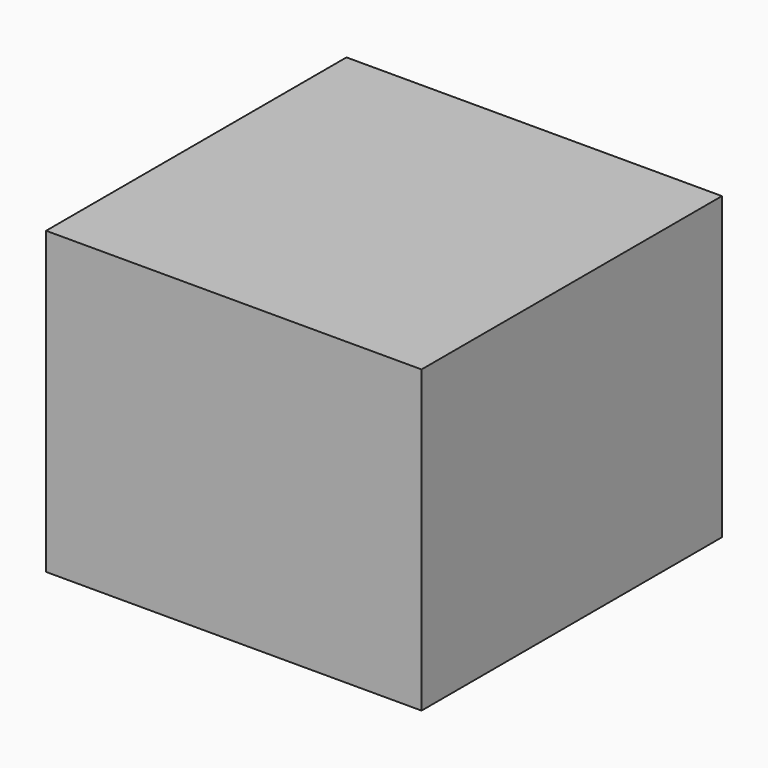
from build123d import *

# Parameters (mm, degrees)
F0_W     = 31.75
F0_H     = 31.75
F1_DEPTH = 25.4
F2_W     = 25.4
F2_H     = 25.4
F3_DEPTH = 24.13


with BuildPart() as f1:
    # F0 (on Top) → F1 (new body)
    with BuildSketch(Plane.XY):
        Rectangle(F0_W, F0_H)
    extrude(amount=F1_DEPTH)

    # F2 (on face) → F3 (cut)
    with BuildSketch(Plane(origin=(0, 0, 0), x_dir=(1, 0, 0), z_dir=(0, 0, -1))):
        Rectangle(F2_W, F2_H)
    extrude(amount=-F3_DEPTH, mode=Mode.SUBTRACT)


solid = f1.part
